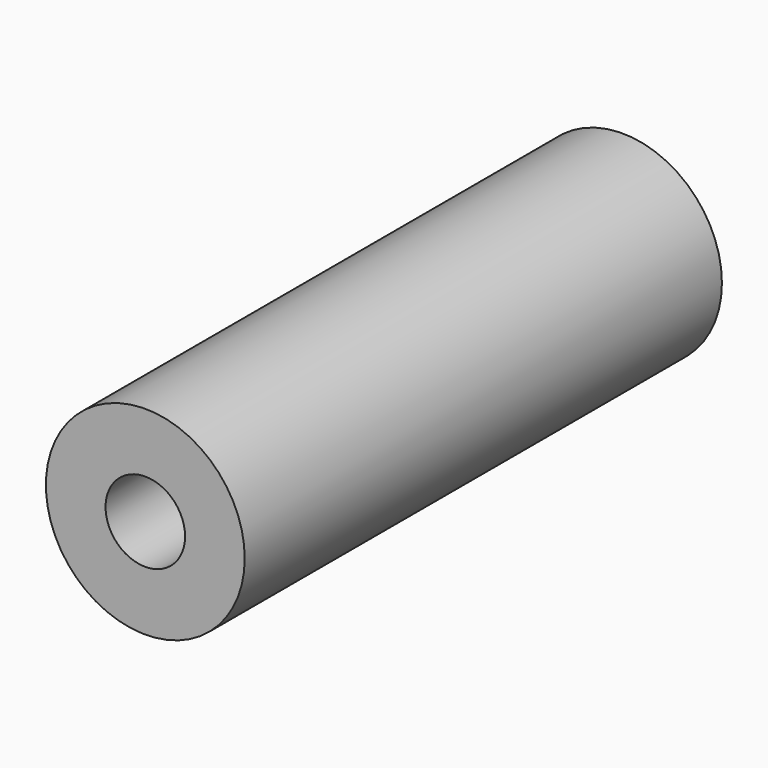
from build123d import *

# Parameters (mm, degrees)
F0_R     = 12.7
F0_R_2   = 5.08
F1_DEPTH = 76.2


with BuildPart() as f1:
    # F0 (on Front) → F1 (new body)
    with BuildSketch(Plane.XZ):
        with Locations((-41.491464, 18.878609)):
            Circle(F0_R)
        with Locations((-41.491464, 18.878609)):
            Circle(F0_R_2, mode=Mode.SUBTRACT)
    extrude(amount=-F1_DEPTH)


solid = f1.part
